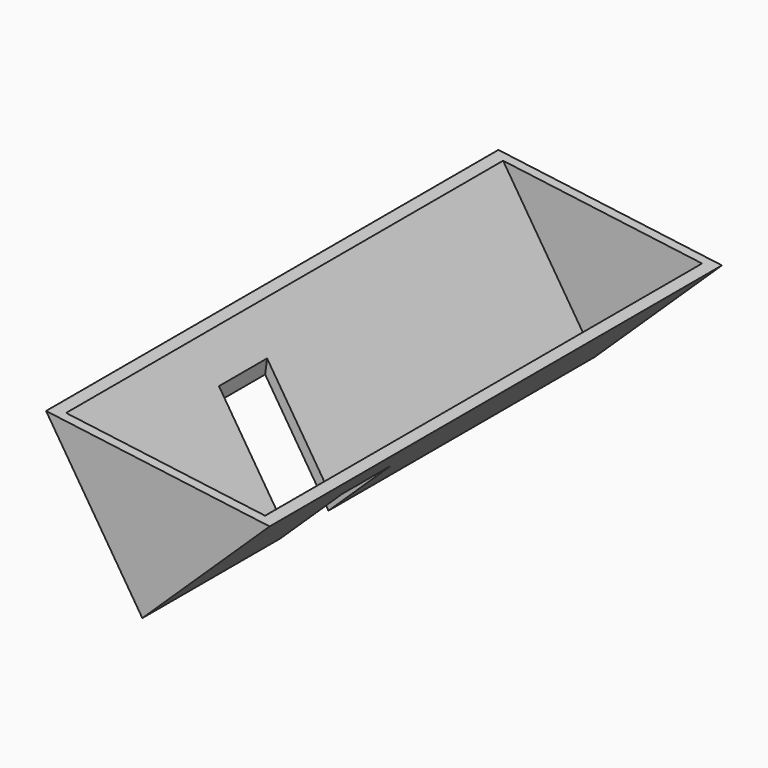
from build123d import *

# Parameters (mm, degrees)
F1_DEPTH = 149.86
F3_T     = -2.54
F2_W     = 34.298644
F2_H     = 15.946299
F4_DEPTH = 94.234


with BuildPart() as f1:
    # F0 (on Front) → F1 (new body)
    with BuildSketch(Plane.XZ):
        Polygon((-25.51176, 40.050719), (0, 0), (33.741359, 32.369759), align=None)
    extrude(amount=F1_DEPTH)

    # F3
    f3_openings = [f1.faces().sort_by_distance(p)[0] for p in [
        (4.114799, -74.93, 36.210239),
    ]]
    offset(amount=F3_T, openings=f3_openings)

    # F2 (on face) → F4 (cut)
    with BuildSketch(Plane(origin=(4.684349, 0, 36.136408), x_dir=(0.991703, 0, -0.128554), z_dir=(0.128554, 0, 0.991703))):
        with Locations((-2.870781, -96.167914)):
            Rectangle(F2_W, F2_H)
    extrude(amount=-F4_DEPTH, mode=Mode.SUBTRACT)


solid = f1.part
